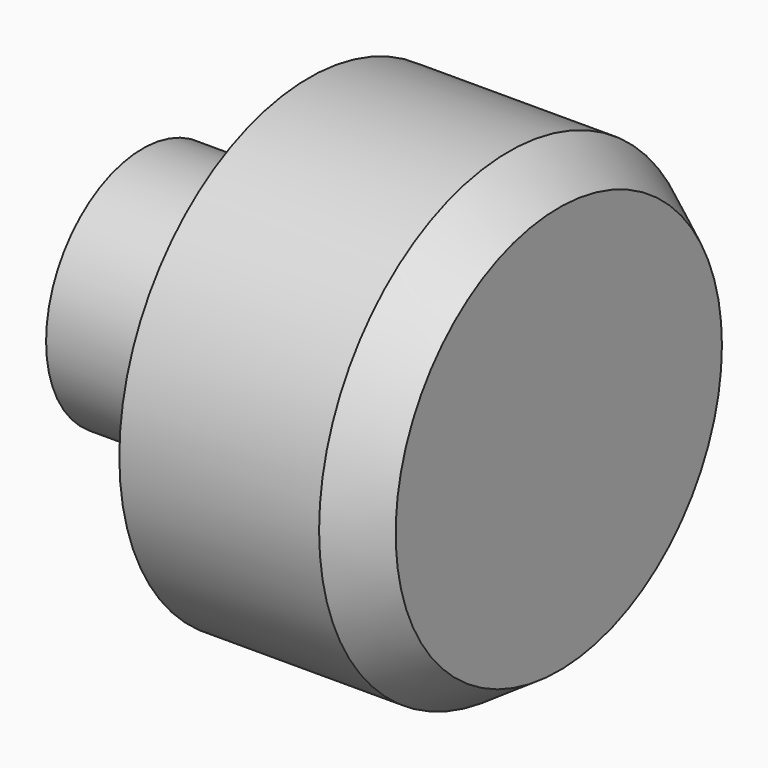
from build123d import *

# Parameters (mm, degrees)
F0_R     = 2.85
F1_DEPTH = 3
F2_SIZE2 = 0.6
F2_SIZE  = 0.4
F3_R     = 1.45
F4_DEPTH = 2
F5_R     = 1.95
F5_R_2   = 1.45
F6_DEPTH = 0.5
F7_SIZE  = 0.2


with BuildPart() as f1:
    # F0 (on Right) → F1 (new body)
    with BuildSketch(Plane.YZ):
        Circle(F0_R)
    extrude(amount=F1_DEPTH)

    # F2
    f2_edges = [f1.edges().sort_by_distance(p)[0] for p in [
        (3, -2.85, 0),
    ]]
    f2_side = f1.faces().sort_by_distance((3, 0, 0))[0]
    chamfer(f2_edges, length=F2_SIZE, length2=F2_SIZE2, reference=f2_side)

    # F3 (on face) → F4 (join)
    with BuildSketch(Plane(origin=(0, 0, 0), x_dir=(0, -1, 0), z_dir=(-1, 0, 0))):
        Circle(F3_R)
    extrude(amount=F4_DEPTH)

    # F5 (on face) → F6 (cut)
    with BuildSketch(Plane(origin=(0, 0, 0), x_dir=(0, -1, 0), z_dir=(-1, 0, 0))):
        Circle(F5_R)
        Circle(F5_R_2, mode=Mode.SUBTRACT)
    extrude(amount=-F6_DEPTH, mode=Mode.SUBTRACT)

    # F7
    f7_edges = [f1.edges().sort_by_distance(p)[0] for p in [
        (0.5, 1.95, 0),
    ]]
    chamfer(f7_edges, length=F7_SIZE)


solid = f1.part
